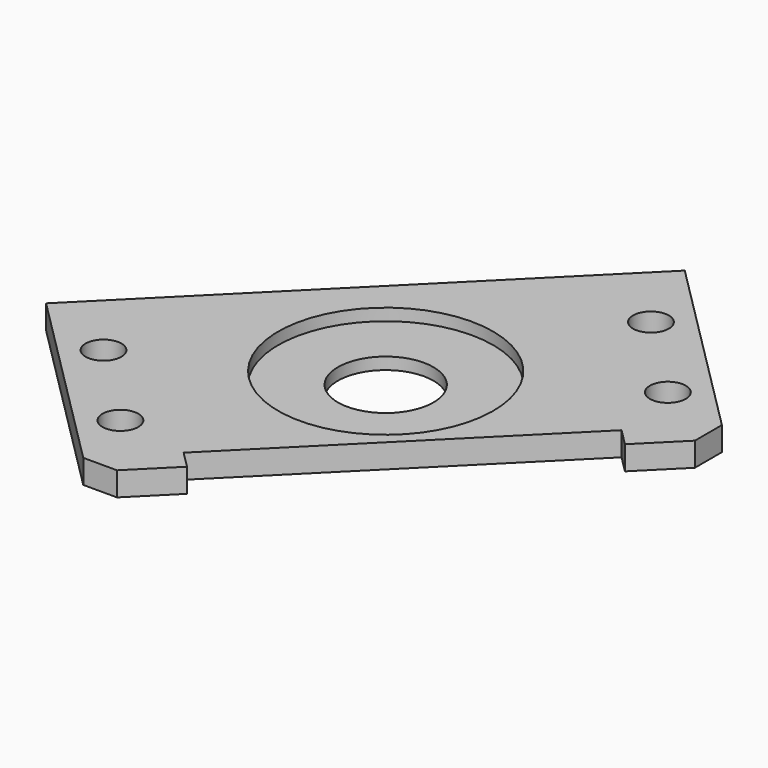
from build123d import *

# Parameters (mm, degrees)
CYLINDER1760_R               = 9
CYLINDER1760_DEPTH           = 4
CYLINDER1760_PLACEMENT_ANGLE = 225
BOX711_W                     = 28.8
BOX711_H                     = 2
BOX711_DEPTH                 = 4
COMPOUND890_PLACEMENT_ANGLE  = 225
CYLINDER1692_R               = 1.5
CYLINDER1692_DEPTH           = 60
CYLINDER1689_R               = 1.5
CYLINDER1689_DEPTH           = 60
CYLINDER1690_R               = 1.5
CYLINDER1690_DEPTH           = 60
CYLINDER1691_R               = 1.5
CYLINDER1691_DEPTH           = 60
COMPOUND833_PLACEMENT_ANGLE  = 225
CYLINDER1645_R               = 4
CYLINDER1645_DEPTH           = 4
CYLINDER1645_PLACEMENT_ANGLE = 225
BOX657_W                     = 42
BOX657_H                     = 24
BOX657_DEPTH                 = 2
COMPOUND818_PLACEMENT_ANGLE  = 225
CHAMFER058_SIZE              = 2


with BuildPart() as obj1:
    # Cylinder1760 → Cylinder1760 (new body)
    with BuildSketch(Plane.XY):
        Circle(CYLINDER1760_R)
    extrude(amount=CYLINDER1760_DEPTH)


with BuildPart() as obj1_1:
    # Cylinder1760 placement: moved
    add(obj1.part.moved(Location((63.64, -63.64, 64))).rotate(Axis((63.64, -63.64, 64), (0, 0, 1)), CYLINDER1760_PLACEMENT_ANGLE))


with BuildPart() as compound890:
    # Box711 → Box711 (new body)
    with BuildSketch(Plane(origin=(-14.4, 10, 24), x_dir=(1, 0, 0), z_dir=(0, 0, 1))):
        with Locations((14.4, 1)):
            Rectangle(BOX711_W, BOX711_H)
    extrude(amount=BOX711_DEPTH)


with BuildPart() as compound890_1:
    # Compound890 placement: moved
    add(compound890.part.moved(Location((63.64, -63.64, 38))).rotate(Axis((63.64, -63.64, 38), (0, 0, 1)), COMPOUND890_PLACEMENT_ANGLE))


with BuildPart() as obj2:
    # Cylinder1692 → Cylinder1692 (new body)
    with BuildSketch(Plane(origin=(18, 85, -57), x_dir=(1, 0, 0), z_dir=(0, 0, 1))):
        Circle(CYLINDER1692_R)
    extrude(amount=CYLINDER1692_DEPTH)


with BuildPart() as obj3:
    # Cylinder1689 → Cylinder1689 (new body)
    with BuildSketch(Plane(origin=(-18, 85, -57), x_dir=(1, 0, 0), z_dir=(0, 0, 1))):
        Circle(CYLINDER1689_R)
    extrude(amount=CYLINDER1689_DEPTH)


with BuildPart() as obj4:
    # Cylinder1690 → Cylinder1690 (new body)
    with BuildSketch(Plane(origin=(-18, 95, -57), x_dir=(1, 0, 0), z_dir=(0, 0, 1))):
        Circle(CYLINDER1690_R)
    extrude(amount=CYLINDER1690_DEPTH)


with BuildPart() as compound833:
    # Cylinder1691 → Cylinder1691 (new body)
    with BuildSketch(Plane(origin=(18, 95, -57), x_dir=(1, 0, 0), z_dir=(0, 0, 1))):
        Circle(CYLINDER1691_R)
    extrude(amount=CYLINDER1691_DEPTH)

    # Compound833: union obj2, obj3, obj4
    add(obj2.part)
    add(obj3.part)
    add(obj4.part)


with BuildPart() as compound833_1:
    # Compound833 placement: moved
    add(compound833.part.moved(Location((0, 0, 100))).rotate(Axis((0, 0, 100), (0, 0, 1)), COMPOUND833_PLACEMENT_ANGLE))


with BuildPart() as obj5:
    # Cylinder1645 → Cylinder1645 (new body)
    with BuildSketch(Plane.XY):
        Circle(CYLINDER1645_R)
    extrude(amount=CYLINDER1645_DEPTH)


with BuildPart() as obj5_1:
    # Cylinder1645 placement: moved
    add(obj5.part.moved(Location((63.64, -63.64, 76))).rotate(Axis((63.64, -63.64, 76), (0, 0, 1)), CYLINDER1645_PLACEMENT_ANGLE))


with BuildPart() as base_encoder_washer:
    # Box657 → Box657 (new body)
    with BuildSketch(Plane(origin=(-21, -12, 34), x_dir=(1, 0, 0), z_dir=(0, 0, 1))):
        with Locations((21, 12)):
            Rectangle(BOX657_W, BOX657_H)
    extrude(amount=BOX657_DEPTH)


with BuildPart() as base_encoder_washer_1:
    # Compound818 placement: moved
    add(base_encoder_washer.part.moved(Location((63.64, -63.64, 42))).rotate(Axis((63.64, -63.64, 42), (0, 0, 1)), COMPOUND818_PLACEMENT_ANGLE))

    # Cut472: cut obj5
    add(obj5_1.part, mode=Mode.SUBTRACT)


with BuildPart() as base_encoder_washer_2:
    # Cut472 placement: moved
    add(base_encoder_washer_1.part.moved(Location((0, 0, -10))))

    # Cut481: cut Compound833
    add(compound833_1.part, mode=Mode.SUBTRACT)


with BuildPart() as base_encoder_washer_3:
    # Cut481 placement: moved
    add(base_encoder_washer_2.part.moved(Location((0, 0, -3))))

    # Cut522: cut Compound890
    add(compound890_1.part, mode=Mode.SUBTRACT)

    # Cut523: cut obj1
    add(obj1_1.part, mode=Mode.SUBTRACT)

    # Chamfer058
    chamfer058_edges = [base_encoder_washer_3.edges().sort_by_distance(p)[0] for p in [
        (86.974524, -57.276039, 64),
        (57.276039, -86.974524, 64),
    ]]
    chamfer(chamfer058_edges, length=CHAMFER058_SIZE)


solid = base_encoder_washer_3.part
